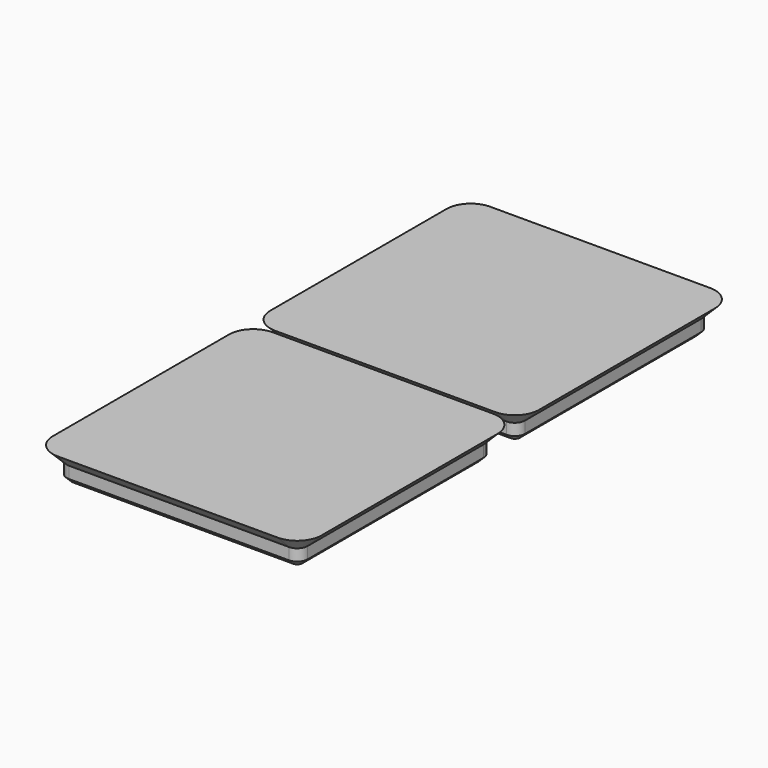
from build123d import *

# Parameters (mm, degrees)
PAD_DEPTH              = 4.75
LINEARPATTERN001_COUNT = 2
LINEARPATTERN001_PITCH = 42


with BuildPart() as part:
    # AdditivePipe: sweep along a path in Sketch
    with BuildLine(Plane.XY) as additivepipe_path:
        Line((-17, -21), (17, -21))
        ThreePointArc((17, -21), (19.8284271247, -19.8284271247), (21, -17))
        Line((21, -17), (21, 17))
        ThreePointArc((21, 17), (19.8284271247, 19.8284271247), (17, 21))
        Line((17, 21), (-17, 21))
        ThreePointArc((-17, 21), (-19.8284271247, 19.8284271247), (-21, 17))
        Line((-21, 17), (-21, -17))
        ThreePointArc((-21, -17), (-19.8284271247, -19.8284271247), (-17, -21))
    # Sketch001 → AdditivePipe (sweep)
    with BuildSketch(Plane.XZ):
        Polygon((-20.75, 0), (-18.6, -2.15), (-18.6, -3.95), (-17.8, -4.75), (-17.8, 0), align=None)
    additivepipe = sweep(path=additivepipe_path.line)

    # Sketch002 → Pad (new body)
    with BuildSketch(Plane.XY):
        with BuildLine():
            Line((-17, -17.8), (17, -17.8))
            ThreePointArc((17, -17.8), (17.5656854249, -17.5656854249), (17.8, -17))
            Line((17.8, -17), (17.8, 17))
            ThreePointArc((17.8, 17), (17.5656854249, 17.5656854249), (17, 17.8))
            Line((17, 17.8), (-17, 17.8))
            ThreePointArc((-17, 17.8), (-17.5656854249, 17.5656854249), (-17.8, 17))
            Line((-17.8, 17), (-17.8, -17))
            ThreePointArc((-17.8, -17), (-17.5656854249, -17.5656854249), (-17, -17.8))
        make_face()
    pad = extrude(amount=-PAD_DEPTH)

    # LinearPattern001: Pad, AdditivePipe ×2
    with Locations(*[(0, i * LINEARPATTERN001_PITCH, 0) for i in range(1, LINEARPATTERN001_COUNT)]):
        add(pad)
        add(additivepipe)


solid = part.part
